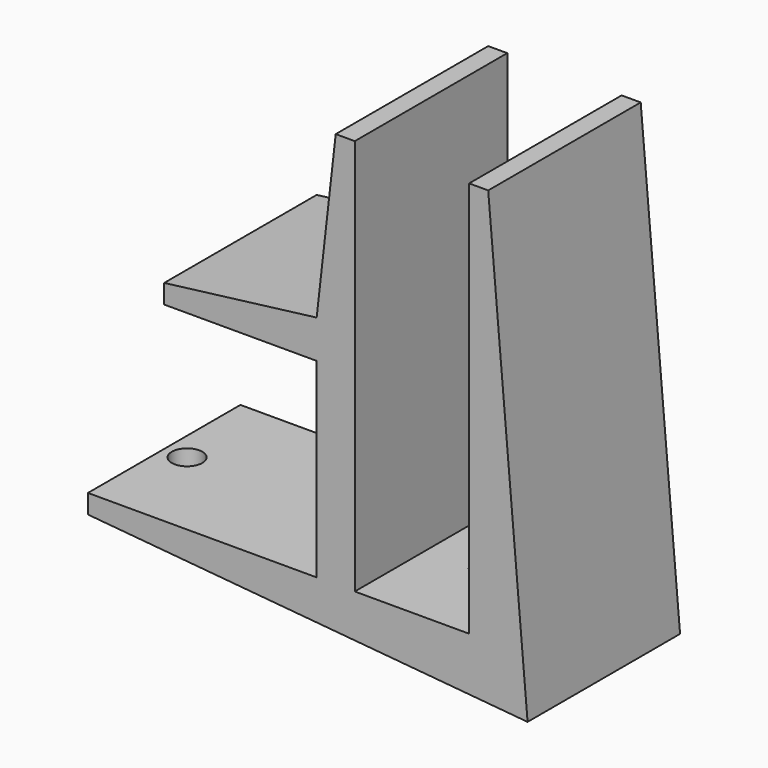
from build123d import *

# Parameters (mm, degrees)
F1_DEPTH = 12.5
F2_R     = 2
F3_DEPTH = 25


with BuildPart() as f1:
    # F0 (on Front) → F1 (new body, symmetric)
    with BuildSketch(Plane.XZ):
        Polygon((0, 0), (-30, 0), (-30, -2.5), (27.665471, -7.689892), (22.5, 52), (20, 52), (20, 0), (5, 0), (5, 52), (2.5, 52), (0, 30), (-20, 27.5), (-20, 25), (0, 25), align=None)
    extrude(amount=F1_DEPTH, both=True)

    # F2 (on Top) → F3 (cut)
    with BuildSketch(Plane.XY):
        with Locations((-27, 0)):
            Circle(F2_R)
        with Locations((12.5, 0)):
            Circle(F2_R)
    extrude(amount=-F3_DEPTH, mode=Mode.SUBTRACT)


solid = f1.part
